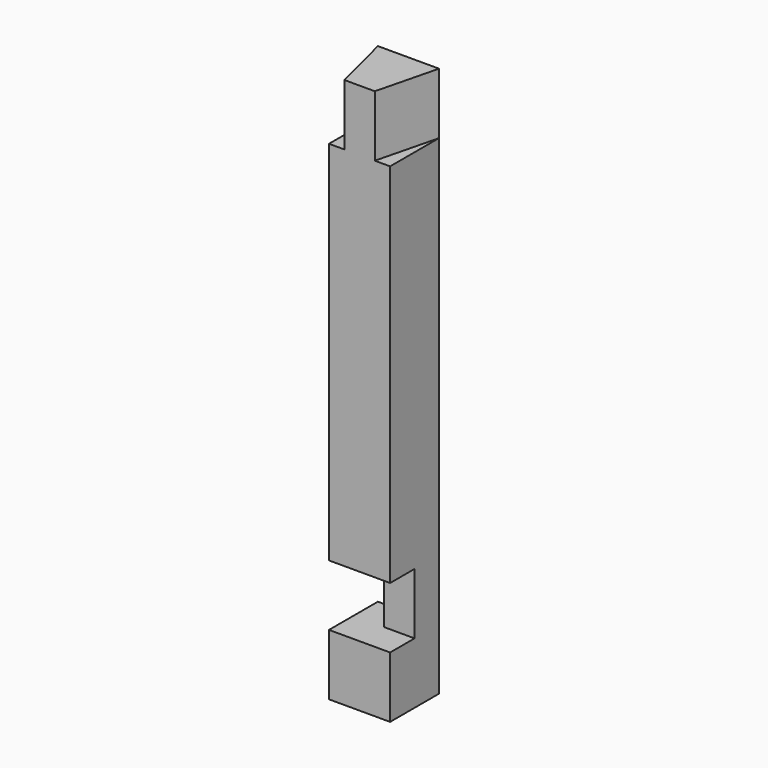
from build123d import *

# Parameters (mm, degrees)
F0_W     = 101.6
F0_H     = 101.6
F1_DEPTH = 914.4
F3_DEPTH = 101.6
F4_W     = 101.6
F4_H     = 101.6
F5_DEPTH = 50.8
F6_W     = 50.8
F6_H     = 101.6
F7_DEPTH = 50.8


with BuildPart() as f1:
    # F0 (on Top) → F1 (new body)
    with BuildSketch(Plane.XY):
        Rectangle(F0_W, F0_H)
    extrude(amount=F1_DEPTH)

    # F2 (on face) → F3 (cut)
    with BuildSketch(Plane.XY.offset(914.4)):
        Polygon((-25.4, -50.8), (-50.8, 50.8), (-50.8, -50.8), align=None)
        Polygon((50.8, -50.8), (50.8, 50.8), (25.4, -50.8), align=None)
    extrude(amount=-F3_DEPTH, mode=Mode.SUBTRACT)

    # F4 (on face) → F5 (cut)
    with BuildSketch(Plane.XZ.offset(50.8)):
        with Locations((0, 152.4)):
            Rectangle(F4_W, F4_H)
    extrude(amount=-F5_DEPTH, mode=Mode.SUBTRACT)

    # F6 (on face) → F7 (cut)
    with BuildSketch(Plane(origin=(-50.8, 0, 0), x_dir=(0, -1, 0), z_dir=(-1, 0, 0))):
        with Locations((-25.4, 152.4)):
            Rectangle(F6_W, F6_H)
        with Locations((25.4, 152.4)):
            Rectangle(F6_W, F6_H)
    extrude(amount=-F7_DEPTH, mode=Mode.SUBTRACT)


solid = f1.part
